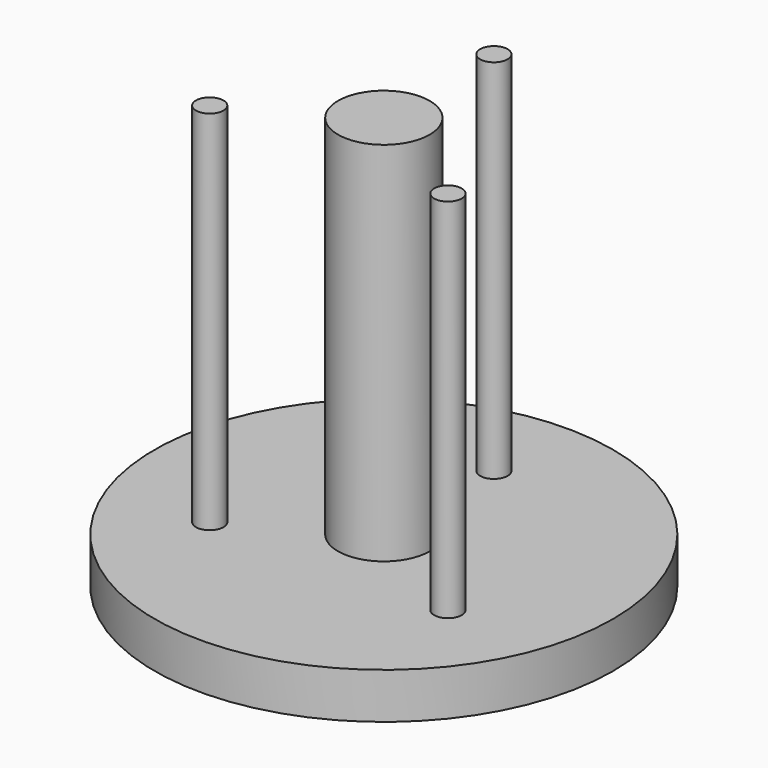
from build123d import *

# Parameters (mm, degrees)
F0_R     = 25
F1_DEPTH = 5
F2_R     = 5
F3_DEPTH = 40
F5_R     = 1.5
F6_DEPTH = 40


with BuildPart() as f1:
    # F0 (on Top) → F1 (new body)
    with BuildSketch(Plane.XY):
        Circle(F0_R)
    extrude(amount=F1_DEPTH)

    # F2 (on face) → F3 (join)
    with BuildSketch(Plane.XY.offset(5)):
        Circle(F2_R)
    extrude(amount=F3_DEPTH)

    # F5 (on face) → F6 (join)
    with BuildSketch(Plane.XY.offset(5)):
        with Locations((0, 15)):
            Circle(F5_R)
        with Locations((12.990381, -7.5)):
            Circle(F5_R)
        with Locations((-12.990381, -7.5)):
            Circle(F5_R)
    extrude(amount=F6_DEPTH)


solid = f1.part
